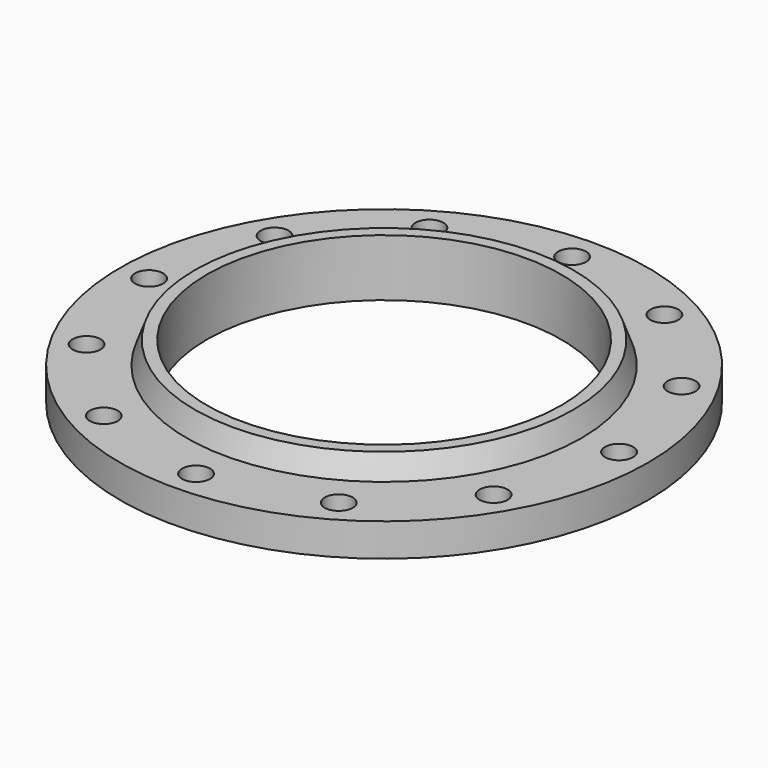
from build123d import *

# Parameters (mm, degrees)
F2_R     = 14.2
F3_DEPTH = 35.401


with BuildPart() as f1:
    # F0 (on Front) → F1 (revolve)
    with BuildSketch(Plane.XZ):
        Polygon((179.6, 58), (179.6, 0), (206.4, 0), (206.4, 2), (267.5, 2), (267.5, 35.4), (200, 35.4), (191.774273, 58), align=None)
    revolve(axis=Axis((0, 0, 29), (0, 0, 1)))

    # F2 (on face) → F3 (cut, through all)
    with BuildSketch(Plane.XY.offset(35.4)):
        with Locations((0, 238.15)):
            Circle(F2_R)
        with Locations((-119.075, 206.24395)):
            Circle(F2_R)
        with Locations((-206.24395, 119.075)):
            Circle(F2_R)
        with Locations((-238.15, 0)):
            Circle(F2_R)
        with Locations((-206.24395, -119.075)):
            Circle(F2_R)
        with Locations((-119.075, -206.24395)):
            Circle(F2_R)
        with Locations((0, -238.15)):
            Circle(F2_R)
        with Locations((119.075, -206.24395)):
            Circle(F2_R)
        with Locations((206.24395, -119.075)):
            Circle(F2_R)
        with Locations((238.15, 0)):
            Circle(F2_R)
        with Locations((206.24395, 119.075)):
            Circle(F2_R)
        with Locations((119.075, 206.24395)):
            Circle(F2_R)
    extrude(amount=-F3_DEPTH, mode=Mode.SUBTRACT)


solid = f1.part
